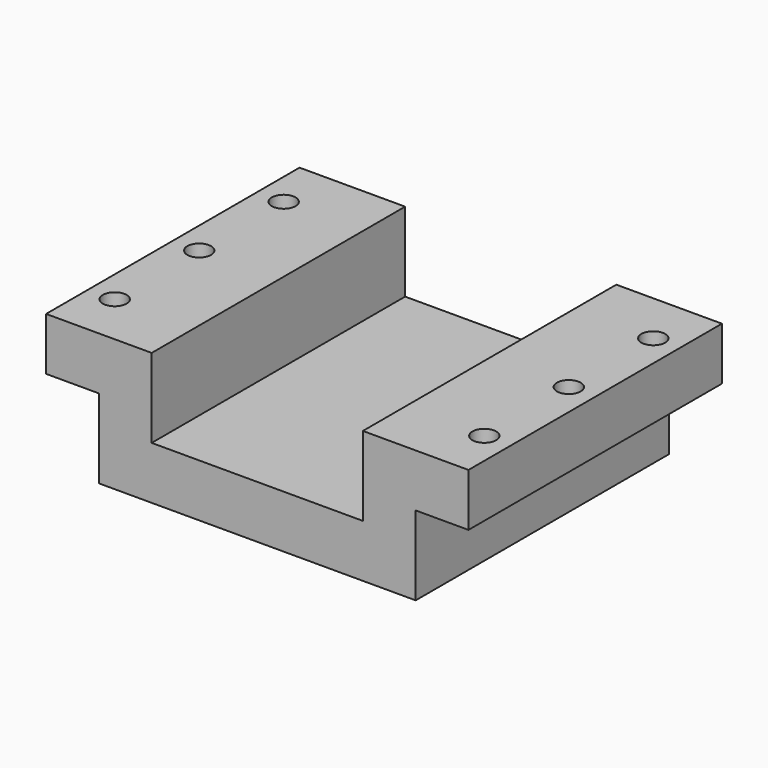
from build123d import *

# Parameters (mm, degrees)
PAD_DEPTH       = 60
SKETCH004_R     = 2.25
POCKET002_DEPTH = 10
POCKET_DEPTH    = 2


with BuildPart() as part:
    # Sketch → Pad (new body)
    with BuildSketch(Plane.XZ):
        Polygon((-40, 0), (-20, 0), (-20, -15), (20, -15), (20, 0), (40, 0), (40, -10), (30, -10), (30, -25), (-30, -25), (-30, -10), (-40, -10), align=None)
    extrude(amount=PAD_DEPTH)

    # Sketch004 (on DatumPlane) → Pocket002 (cut)
    with BuildSketch(Plane.XY.offset(-10)):
        with Locations((-35, -10)):
            Circle(SKETCH004_R)
        with Locations((35, -10)):
            Circle(SKETCH004_R)
        with Locations((-35, -30)):
            Circle(SKETCH004_R)
        with Locations((35, -30)):
            Circle(SKETCH004_R)
        with Locations((-35, -50)):
            Circle(SKETCH004_R)
        with Locations((-35, -70)):
            Circle(SKETCH004_R)
        with Locations((35, -50)):
            Circle(SKETCH004_R)
        with Locations((35, -70)):
            Circle(SKETCH004_R)
    extrude(amount=POCKET002_DEPTH, mode=Mode.SUBTRACT)

    # Sketch005 (on DatumPlane) → Pocket (cut)
    with BuildSketch(Plane.XY.offset(-10)):
        Polygon((39.041452, -10), (37.020726, -6.5), (32.979274, -6.5), (30.958548, -10), (32.979274, -13.5), (37.020726, -13.5), align=None)
        Polygon((39.041452, -30), (37.020726, -26.5), (32.979274, -26.5), (30.958548, -30), (32.979274, -33.5), (37.020726, -33.5), align=None)
        Polygon((39.041452, -50), (37.020726, -46.5), (32.979274, -46.5), (30.958548, -50), (32.979274, -53.5), (37.020726, -53.5), align=None)
        Polygon((39.041452, -70), (37.020726, -66.5), (32.979274, -66.5), (30.958548, -70), (32.979274, -73.5), (37.020726, -73.5), align=None)
    extrude(amount=POCKET_DEPTH, mode=Mode.SUBTRACT)


solid = part.part
